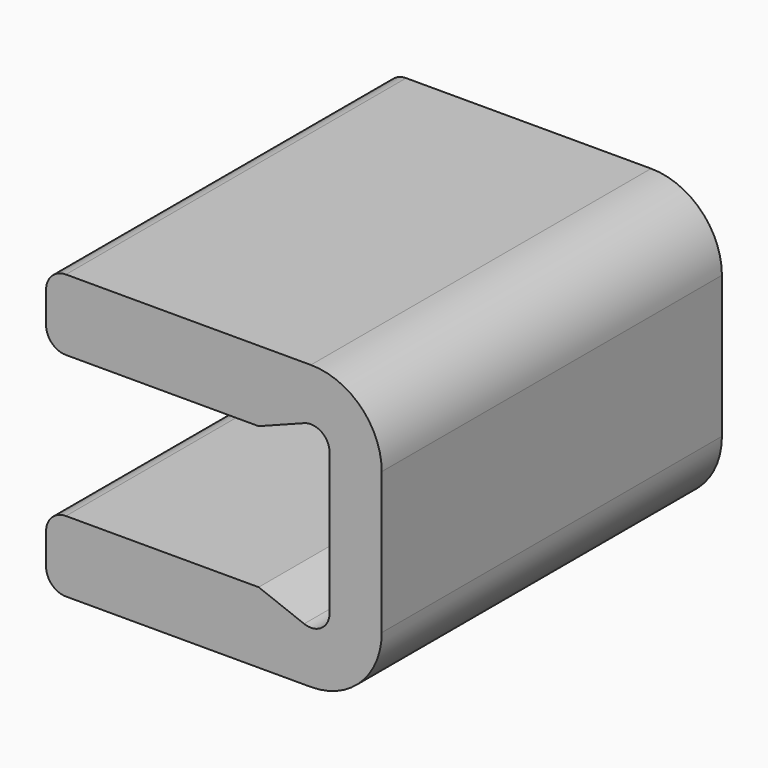
from build123d import *

# Parameters (mm, degrees)
F1_DEPTH = 19.05
F2_R     = 1.5875
F3_DEPTH = 1.651


with BuildPart() as f1:
    # F0 (on Front) → F1 (new body)
    with BuildSketch(Plane.XZ):
        with BuildLine():
            Line((0, 6.35), (0, 0))
            ThreePointArc((0, 0), (-0.36356, -0.690866), (-1.138859, -0.782422))
            Line((-1.138859, -0.782422), (-3.175, 0))
            Line((-3.175, 0), (-11.811, 0))
            ThreePointArc((-11.811, 0), (-12.439618, -0.260382), (-12.7, -0.889))
            Line((-12.7, -0.889), (-12.7, -2.286))
            ThreePointArc((-12.7, -2.286), (-12.439618, -2.914618), (-11.811, -3.175))
            Line((-11.811, -3.175), (-0.8382, -3.175))
            ThreePointArc((-0.8382, -3.175), (1.406864, -2.245064), (2.3368, 0))
            Line((2.3368, 0), (2.3368, 6.35))
            ThreePointArc((2.3368, 6.35), (1.406864, 8.595064), (-0.8382, 9.525))
            Line((-0.8382, 9.525), (-11.811, 9.525))
            ThreePointArc((-11.811, 9.525), (-12.439618, 9.264618), (-12.7, 8.636))
            Line((-12.7, 8.636), (-12.7, 7.239))
            ThreePointArc((-12.7, 7.239), (-12.439618, 6.610382), (-11.811, 6.35))
            Line((-11.811, 6.35), (-3.175, 6.35))
            Line((-3.175, 6.35), (-1.138859, 7.132422))
            ThreePointArc((-1.138859, 7.132422), (-0.36356, 7.040866), (0, 6.35))
        make_face()
    extrude(amount=F1_DEPTH)

    # F2 (on face) → F3 (cut)
    with BuildSketch(Plane(origin=(0, 0, -3.175), x_dir=(1, 0, 0), z_dir=(0, 0, -1))):
        with Locations((-6.35, 15.875)):
            Circle(F2_R)
        with Locations((-6.35, 3.175)):
            Circle(F2_R)
        with Locations((-6.35, 9.525)):
            Circle(F2_R)
    extrude(amount=-F3_DEPTH, mode=Mode.SUBTRACT)


solid = f1.part
